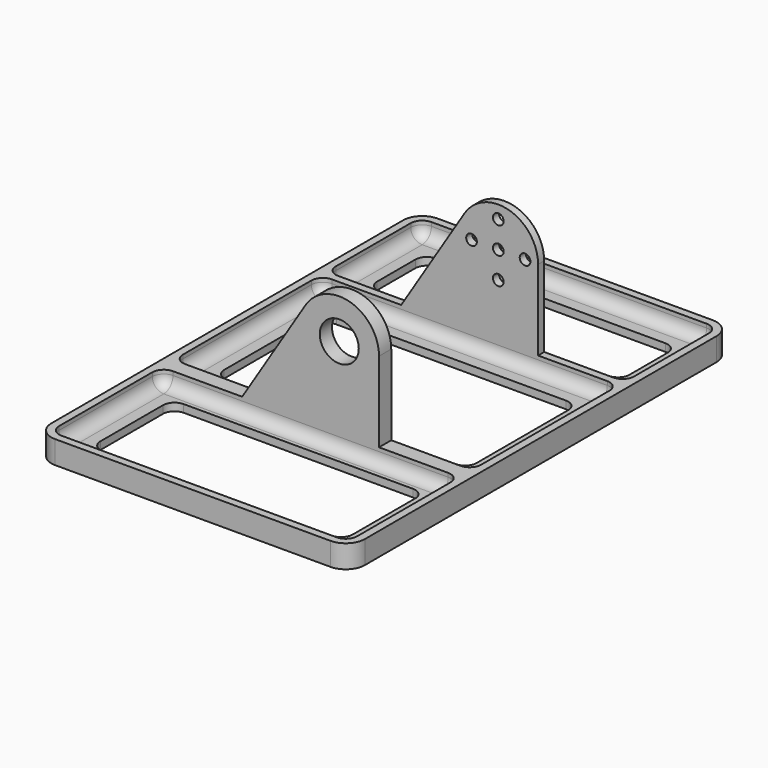
from build123d import *

# Parameters (mm, degrees)
PAD_DEPTH    = 2
SKETCH001_R  = 5.1
PAD001_DEPTH = 4
SKETCH003_R  = 1.4
PAD003_DEPTH = 2
PAD004_DEPTH = 4
FILLET_R     = 3
FILLET001_R  = 3
FILLET002_R  = 3
FILLET003_R  = 3
FILLET004_R  = 3
FILLET005_R  = 3
FILLET006_R  = 3
FILLET007_R  = 3


with BuildPart() as part:
    # Sketch → Pad (new body)
    with BuildSketch(Plane.XY):
        with BuildLine():
            Line((-36, 62.5), (36, 62.5))
            ThreePointArc((41, 57.5), (39.535534, 61.035534), (36, 62.5))
            Line((41, 57.5), (41, -57.5))
            ThreePointArc((36, -62.5), (39.535534, -61.035534), (41, -57.5))
            Line((36, -62.5), (-36, -62.5))
            ThreePointArc((-41, -57.5), (-39.535534, -61.035534), (-36, -62.5))
            Line((-41, -57.5), (-41, 57.5))
            ThreePointArc((-36, 62.5), (-39.535534, 61.035534), (-41, 57.5))
        make_face()
        with BuildLine():
            ThreePointArc((-30, 54.5), (-32.12132, 53.62132), (-33, 51.5))
            Line((-33, 39), (-33, 51.5))
            ThreePointArc((-33, 39), (-32.12132, 36.87868), (-30, 36))
            Line((30, 36), (-30, 36))
            ThreePointArc((30, 36), (32.12132, 36.87868), (33, 39))
            Line((33, 51.5), (33, 39))
            ThreePointArc((33, 51.5), (32.12132, 53.62132), (30, 54.5))
            Line((-30, 54.5), (30, 54.5))
        make_face(mode=Mode.SUBTRACT)
        with BuildLine():
            ThreePointArc((-30, -28), (-32.12132, -28.87868), (-33, -31))
            Line((-33, -51.5), (-33, -31))
            ThreePointArc((-33, -51.5), (-32.12132, -53.62132), (-30, -54.5))
            Line((30, -54.5), (-30, -54.5))
            ThreePointArc((30, -54.5), (32.12132, -53.62132), (33, -51.5))
            Line((33, -31), (33, -51.5))
            ThreePointArc((33, -31), (32.12132, -28.87868), (30, -28))
            Line((-30, -28), (30, -28))
        make_face(mode=Mode.SUBTRACT)
        with BuildLine():
            ThreePointArc((-30, 22), (-32.12132, 21.12132), (-33, 19))
            Line((-33, -11), (-33, 19))
            ThreePointArc((-33, -11), (-32.12132, -13.12132), (-30, -14))
            Line((30, -14), (-30, -14))
            ThreePointArc((30, -14), (32.12132, -13.12132), (33, -11))
            Line((33, 19), (33, -11))
            ThreePointArc((33, 19), (32.12132, 21.12132), (30, 22))
            Line((-30, 22), (30, 22))
        make_face(mode=Mode.SUBTRACT)
    extrude(amount=PAD_DEPTH)

    # Sketch001 → Pad001 (join)
    with BuildSketch(Plane(origin=(7.5, -20, 0), x_dir=(1, 0, 0), z_dir=(0, -1, 0))):
        with BuildLine():
            Line((10.4, 27), (10.4, 6))
            Line((33.5, 6), (10.4, 6))
            Line((33.5, 2), (33.5, 6))
            Line((-48.5, 2), (33.5, 2))
            Line((-48.5, 6), (-48.5, 2))
            Line((-25.4, 6), (-48.5, 6))
            Line((-25.4, 6), (-8.817564, 32.514577))
            ThreePointArc((10.4, 27), (2.868565, 36.996566), (-8.817564, 32.514577))
        make_face()
        with Locations((0, 27)):
            Circle(SKETCH001_R, mode=Mode.SUBTRACT)
    extrude(amount=PAD001_DEPTH)

    # Sketch003 → Pad003 (join)
    with BuildSketch(Plane(origin=(7.5, 30, 0), x_dir=(1, 0, 0), z_dir=(0, -1, 0))):
        with BuildLine():
            Line((33.5, 2), (-48.5, 2))
            Line((-48.5, 6), (-48.5, 2))
            Line((-25.4, 6), (-48.5, 6))
            Line((-8.817564, 32.514577), (-25.4, 6))
            ThreePointArc((10.4, 27), (2.868565, 36.996566), (-8.817564, 32.514577))
            Line((10.4, 27), (10.4, 6))
            Line((10.4, 6), (33.5, 6))
            Line((33.5, 6), (33.5, 2))
        make_face()
        with Locations((0, 27)):
            Circle(SKETCH003_R, mode=Mode.SUBTRACT)
        with Locations((-7, 27)):
            Circle(SKETCH003_R, mode=Mode.SUBTRACT)
        with Locations((0, 20)):
            Circle(SKETCH003_R, mode=Mode.SUBTRACT)
        with Locations((7, 27)):
            Circle(SKETCH003_R, mode=Mode.SUBTRACT)
        with Locations((0, 34)):
            Circle(SKETCH003_R, mode=Mode.SUBTRACT)
    extrude(amount=PAD003_DEPTH)

    # Sketch004 (on Face5 of Pad003) → Pad004 (join)
    with BuildSketch(Plane.XY.offset(2)):
        with BuildLine():
            Line((-36, 62.5), (36, 62.5))
            ThreePointArc((41, 57.5), (39.535534, 61.035534), (36, 62.5))
            Line((41, -57.5), (41, 57.5))
            ThreePointArc((36, -62.5), (39.535534, -61.035534), (41, -57.5))
            Line((-36, -62.5), (36, -62.5))
            ThreePointArc((-41, -57.5), (-39.535534, -61.035534), (-36, -62.5))
            Line((-41, 57.5), (-41, -57.5))
            ThreePointArc((-36, 62.5), (-39.535534, 61.035534), (-41, 57.5))
        make_face()
        with BuildLine():
            Line((-36, 60.5), (36, 60.5))
            ThreePointArc((39, 57.5), (38.12132, 59.62132), (36, 60.5))
            Line((39, 57.5), (39, -57.5))
            ThreePointArc((36, -60.5), (38.12132, -59.62132), (39, -57.5))
            Line((36, -60.5), (-36, -60.5))
            ThreePointArc((-39, -57.5), (-38.12132, -59.62132), (-36, -60.5))
            Line((-39, -57.5), (-39, 57.5))
            ThreePointArc((-36, 60.5), (-38.12132, 59.62132), (-39, 57.5))
        make_face(mode=Mode.SUBTRACT)
    extrude(amount=PAD004_DEPTH)

    # Fillet
    fillet_edges = [part.edges().sort_by_distance(p)[0] for p in [
        (-39, 4, 2),
    ]]
    fillet(fillet_edges, radius=FILLET_R)

    # Fillet001
    fillet001_edges = [part.edges().sort_by_distance(p)[0] for p in [
        (-39, -40.75, 2),
    ]]
    fillet(fillet001_edges, radius=FILLET001_R)

    # Fillet002
    fillet002_edges = [part.edges().sort_by_distance(p)[0] for p in [
        (0, -24, 2),
    ]]
    fillet(fillet002_edges, radius=FILLET002_R)

    # Fillet003
    fillet003_edges = [part.edges().sort_by_distance(p)[0] for p in [
        (1.5, 28, 2),
    ]]
    fillet(fillet003_edges, radius=FILLET003_R)

    # Fillet004
    fillet004_edges = [part.edges().sort_by_distance(p)[0] for p in [
        (1.5, -20, 2),
    ]]
    fillet(fillet004_edges, radius=FILLET004_R)

    # Fillet005
    fillet005_edges = [part.edges().sort_by_distance(p)[0] for p in [
        (39, 4, 2),
    ]]
    fillet(fillet005_edges, radius=FILLET005_R)

    # Fillet006
    fillet006_edges = [part.edges().sort_by_distance(p)[0] for p in [
        (0, 60.5, 2),
    ]]
    fillet(fillet006_edges, radius=FILLET006_R)

    # Fillet007
    fillet007_edges = [part.edges().sort_by_distance(p)[0] for p in [
        (0, 30, 2),
    ]]
    fillet(fillet007_edges, radius=FILLET007_R)


solid = part.part
